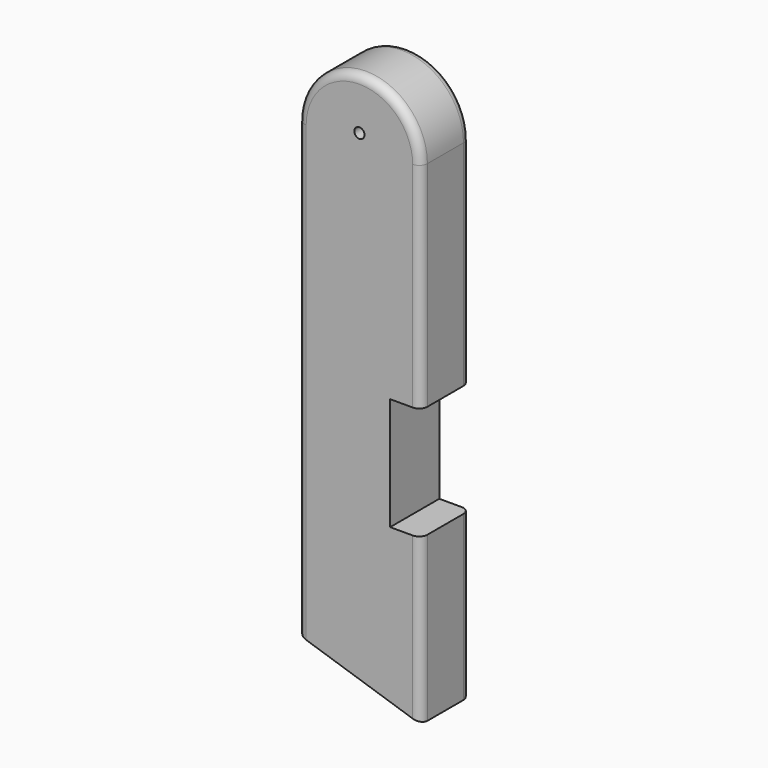
from build123d import *

# Parameters (mm, degrees)
F0_R     = 3.175
F1_DEPTH = 38.1
F2_R     = 5.08
F3_DEPTH = 38.1


with BuildPart() as f1:
    # F0 (on Front) → F1 (new body)
    with BuildSketch(Plane.XZ):
        with BuildLine():
            ThreePointArc((38.1, 139.7), (0, 177.8), (-38.1, 139.7))
            Line((-38.1, 139.7), (-38.1, -139.7))
            Line((-38.1, -139.7), (38.1, -164.458881))
            Line((38.1, -164.458881), (38.1, -62.858881))
            Line((38.1, -62.858881), (19.05, -62.858881))
            Line((19.05, -62.858881), (19.05, 6.991119))
            Line((19.05, 6.991119), (38.1, 6.991119))
            Line((38.1, 6.991119), (38.1, 139.7))
        make_face()
        with Locations((0, 146.05)):
            Circle(F0_R, mode=Mode.SUBTRACT)
    extrude(amount=F1_DEPTH)

    # F2
    f2_edges = [f1.edges().sort_by_distance(p)[0] for p in [
        (-38.1, 0, 0),
        (38.1, 0, -113.658881),
        (38.1, 0, 73.34556),
        (0, 0, 177.8),
        (-38.1, -38.1, 0),
        (0, -38.1, 177.8),
        (38.1, -38.1, -113.658881),
        (38.1, -38.1, 73.34556),
    ]]
    fillet(f2_edges, radius=F2_R)

    # F0 (on Front) → F3 (cut)
    with BuildSketch(Plane.XZ):
        with Locations((0, 146.05)):
            Circle(F0_R)
    extrude(amount=-F3_DEPTH, mode=Mode.SUBTRACT)


solid = f1.part
